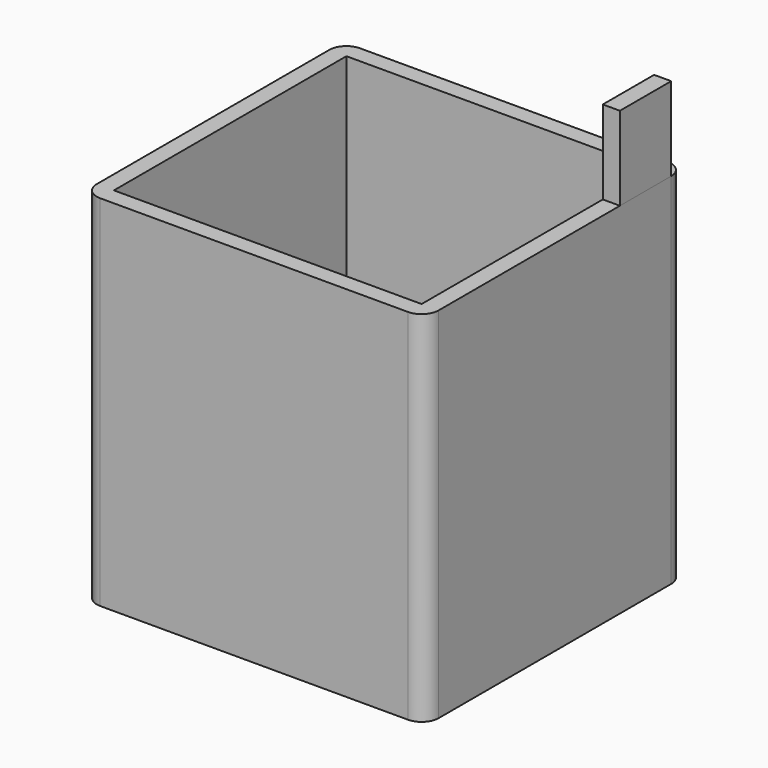
from build123d import *

# Parameters (mm, degrees)
F0_W     = 36
F0_H     = 34
F0_W_2   = 5
F0_H_2   = 20
F1_DEPTH = 2
F2_DEPTH = 42
F3_W     = 7.5
F3_H     = 9.785272
F4_DEPTH = 2


with BuildPart() as f1:
    # F0 (on Top) → F1 (new body)
    with BuildSketch(Plane.XY):
        with BuildLine():
            Line((20, -16.831164), (20, 17.168836))
            ThreePointArc((20, 17.168836), (19.414214, 18.583049), (18, 19.168836))
            Line((18, 19.168836), (-18, 19.168836))
            ThreePointArc((-18, 19.168836), (-19.414214, 18.583049), (-20, 17.168836))
            Line((-20, 17.168836), (-20, -16.831164))
            ThreePointArc((-20, -16.831164), (-19.414214, -18.245378), (-18, -18.831164))
            Line((-18, -18.831164), (18, -18.831164))
            ThreePointArc((18, -18.831164), (19.414214, -18.245378), (20, -16.831164))
        make_face()
        with Locations((0, 0.168836)):
            Rectangle(F0_W, F0_H, mode=Mode.SUBTRACT)
        with Locations((0, 0.168836)):
            Rectangle(F0_W, F0_H)
        with Locations((0, 0.168836)):
            Rectangle(F0_W_2, F0_H_2, mode=Mode.SUBTRACT)
    extrude(amount=F1_DEPTH)


with BuildPart() as f2:
    # F0 (on Top) → F2 (new body)
    with BuildSketch(Plane.XY):
        with BuildLine():
            Line((20, -16.831164), (20, 17.168836))
            ThreePointArc((20, 17.168836), (19.414214, 18.583049), (18, 19.168836))
            Line((18, 19.168836), (-18, 19.168836))
            ThreePointArc((-18, 19.168836), (-19.414214, 18.583049), (-20, 17.168836))
            Line((-20, 17.168836), (-20, -16.831164))
            ThreePointArc((-20, -16.831164), (-19.414214, -18.245378), (-18, -18.831164))
            Line((-18, -18.831164), (18, -18.831164))
            ThreePointArc((18, -18.831164), (19.414214, -18.245378), (20, -16.831164))
        make_face()
        with Locations((0, 0.168836)):
            Rectangle(F0_W, F0_H, mode=Mode.SUBTRACT)
    extrude(amount=F2_DEPTH)


with BuildPart() as f4:
    # F3 (on face) → F4 (new body)
    with BuildSketch(Plane.YZ.offset(20)):
        with Locations((13.418836, 46.892636)):
            Rectangle(F3_W, F3_H)
    extrude(amount=-F4_DEPTH)


solid = Compound([f1.part, f2.part, f4.part])
